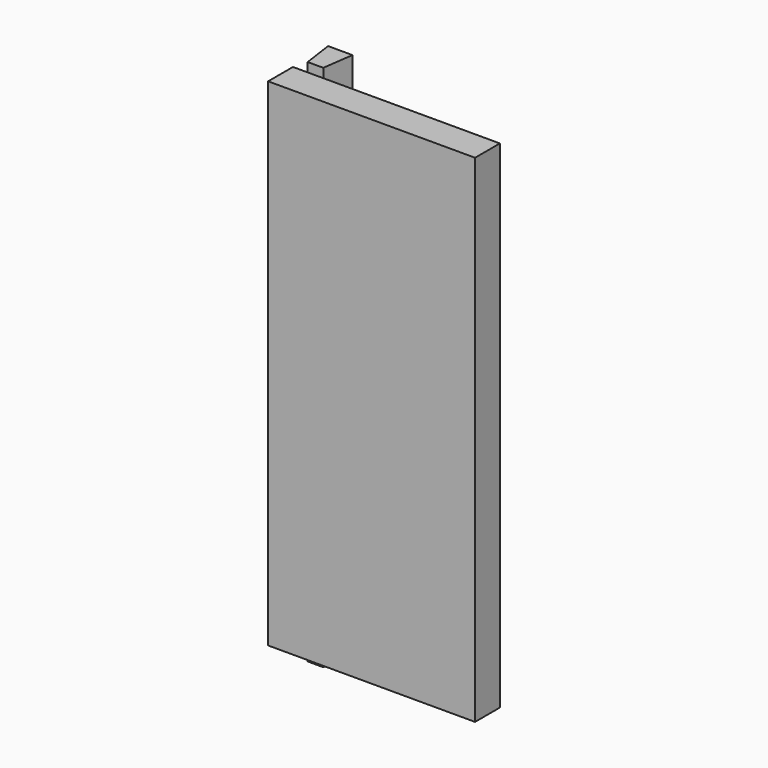
from build123d import *

# Parameters (mm, degrees)
F1_DEPTH = 19.05
F2_W     = 127
F2_H     = 19.05
F3_DEPTH = 304.8


with BuildPart() as f1:
    # F0 (on Top) → F1 (new body)
    with BuildSketch(Plane.XY):
        Polygon((-42.5739462912, 36.8655781599), (-57.5238098064, 36.8655781599), (-54.8465069053, 17.8155781599), (-45.2512491923, 17.8155781599), align=None)
    extrude(amount=-F1_DEPTH)

    # F1_face (on face) + F2 (on Top) → F3 (join)
    with BuildSketch(Plane(origin=(-50.0488780488, 28.0332157421, -19.05), x_dir=(1, 0, 0), z_dir=(0, 0, -1))):
        Polygon((-7.4749317576, -8.8323624178), (7.4749317576, -8.8323624178), (4.7976288565, 10.2176375822), (-4.7976288565, 10.2176375822), align=None)
    with BuildSketch(Plane.XY):
        with Locations((6.3619359234, -0.1068222336)):
            Rectangle(F2_W, F2_H)
    extrude(amount=F3_DEPTH, dir=(0, 0, -1))


solid = f1.part
